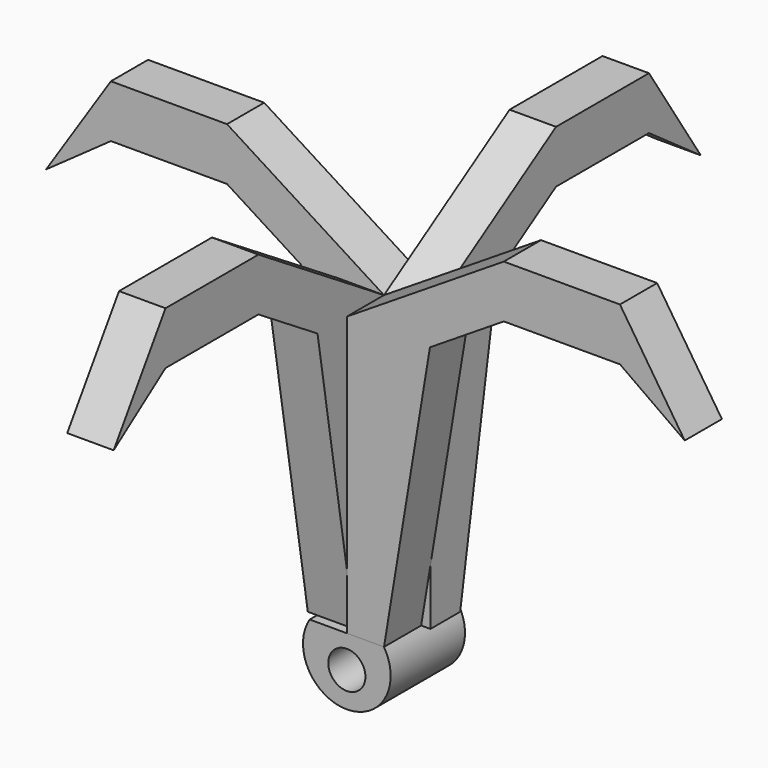
from build123d import *

# Parameters (mm, degrees)
F1_DEPTH = 6.35
F2_COUNT = 4
F3_R     = 2.54
F4_DEPTH = 12.7


with BuildPart() as f1:
    # F0 (on Front) → F1 (new body)
    with BuildSketch(Plane.XZ):
        Polygon((0, 38.1), (0, 0), (5.08, 0), (11.35992, 38.1), (21.454822, 44.497166), (37.329822, 44.497166), (46.185907, 38.20705), (37.329822, 51.695977), (21.454822, 51.695977), align=None)
    extrude(amount=F1_DEPTH)


with BuildPart() as f2_1:
    # F2: instance of F1
    add(f1.part.rotate(Axis((0, 0, 19.05), (0, 0, 1)), 1 * 360 / F2_COUNT))


with BuildPart() as f2_2:
    # F2: instance of F1
    add(f1.part.rotate(Axis((0, 0, 19.05), (0, 0, 1)), 2 * 360 / F2_COUNT))


with BuildPart() as f2_3:
    # F2: instance of F1
    add(f1.part.rotate(Axis((0, 0, 19.05), (0, 0, 1)), 3 * 360 / F2_COUNT))


with BuildPart() as f4:
    # F3 (on face) → F4 (new body)
    with BuildSketch(Plane.XZ.offset(6.35)):
        with BuildLine():
            Line((0, 0), (-5.08, 0))
            ThreePointArc((-5.08, 0), (0, -9.165578), (5.08, 0))
            Line((5.08, 0), (0, 0))
        make_face()
        with Locations((0, -4.407621)):
            Circle(F3_R, mode=Mode.SUBTRACT)
    extrude(amount=-F4_DEPTH)


solid = Compound([f1.part, f2_1.part, f2_2.part, f2_3.part, f4.part])
